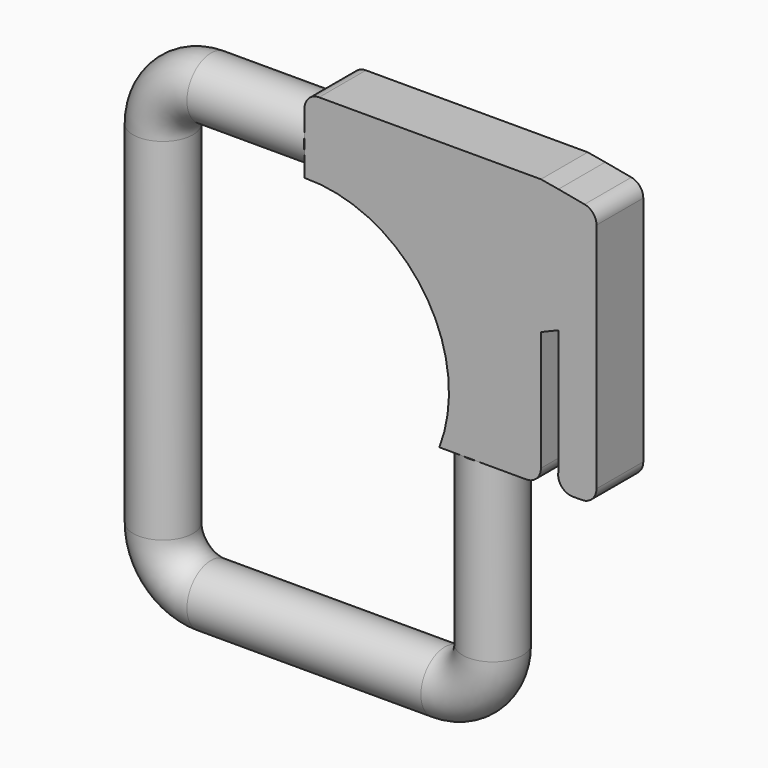
from build123d import *

# Parameters (mm, degrees)
F1_R     = 13.0055839956
F4_DEPTH = 12.7


with BuildPart() as f2:
    # F2: sweep along a path in F0
    with BuildLine(Plane.XZ) as f2_path:
        Line((0, 96.9707472146), (-50.8, 96.9707472146))
        ThreePointArc((-50.8, 96.9707472146), (-65.4871362057, 90.8871362057), (-71.5707472146, 76.2))
        Line((-71.5707472146, 76.2), (-71.5707472146, 0))
        Line((-71.5707472146, 0), (-71.5707472146, -76.2))
        ThreePointArc((-71.5707472146, -76.2), (-65.4871362057, -90.8871362057), (-50.8, -96.9707472146))
        Line((-50.8, -96.9707472146), (0, -96.9707472146))
        Line((0, -96.9707472146), (50.8, -96.9707472146))
        ThreePointArc((50.8, -96.9707472146), (65.4871362057, -90.8871362057), (71.5707472146, -76.2))
        Line((71.5707472146, -76.2), (71.5707472146, 0))
    # F1 (on Right) → F2 (sweep)
    with BuildSketch(Plane.YZ):
        with Locations((0, 96.9707472146)):
            Circle(F1_R)
    sweep(path=f2_path.line)

    # F3 (on Front) → F4 (join, symmetric)
    with BuildSketch(Plane.XZ):
        with BuildLine():
            Line((102.6649682577, 58.4070757031), (102.6649682577, 116.8141514063))
            Line((102.6649682577, 116.8141514063), (51.3324841288, 116.8141514063))
            Line((51.3324841288, 116.8141514063), (6.35, 116.8141514063))
            ThreePointArc((6.35, 116.8141514063), (1.8598719395, 114.9542794668), (0, 110.4641514063))
            Line((0, 110.4641514063), (0, 109.9763312101))
            Line((0, 109.9763312101), (0, 83.965163219))
            ThreePointArc((0, 83.965163219), (51.6440197634, 57.5795414091), (58.565163219, 0))
            Line((58.565163219, 0), (84.5763312101, 0))
            Line((84.5763312101, 0), (96.3149682577, 0))
            ThreePointArc((96.3149682577, 0), (100.8050963182, 1.8598719395), (102.6649682577, 6.35))
            Line((102.6649682577, 6.35), (102.6649682577, 58.4070757031))
        make_face()
        Polygon((110.2849682577, 115.4979523605), (102.6649682577, 116.8141514063), (102.6649682577, 58.4070757031), (110.2849682577, 61.5820757031), align=None)
        with BuildLine():
            Line((121.606434498, 113.3916312351), (110.2849682577, 115.4979523605))
            Line((110.2849682577, 115.4979523605), (110.2849682577, 61.5820757031))
            Line((110.2849682577, 61.5820757031), (126.7949682577, 61.5820757031))
            Line((126.7949682577, 61.5820757031), (126.7949682577, 107.1487556019))
            ThreePointArc((126.7949682577, 107.1487556019), (125.3285023584, 111.2075232334), (121.606434498, 113.3916312351))
        make_face()
        with BuildLine():
            Line((126.7949682577, 61.5820757031), (110.2849682577, 61.5820757031))
            Line((110.2849682577, 61.5820757031), (110.2849682577, 7.6661990458))
            ThreePointArc((110.2849682577, 7.6661990458), (111.5634859227, 2.3522108573), (116.4970629182, 0))
            Line((116.4970629182, 0), (120.4449682577, 0))
            ThreePointArc((120.4449682577, 0), (124.9350963182, 1.8598719395), (126.7949682577, 6.35))
            Line((126.7949682577, 6.35), (126.7949682577, 61.5820757031))
        make_face()
    extrude(amount=F4_DEPTH, both=True)


solid = f2.part
